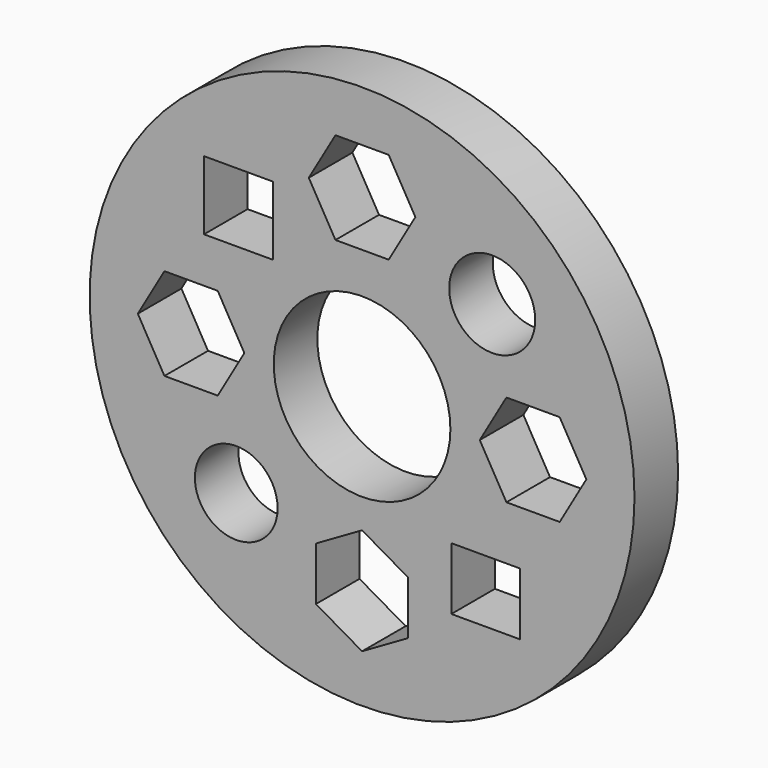
from build123d import *

# Parameters (mm, degrees)
F0_R     = 37.5
F0_R_2   = 12.1579998943
F1_DEPTH = 3.75
F2_W     = 9.4736851752
F2_H     = 9.4736842439
F2_W_2   = 9.4736861065
F2_H_2   = 8.5855266079
F2_R     = 5.6946860576
F2_R_2   = 5.9210527688
F3_DEPTH = 25


with BuildPart() as f1:
    # F0 (on Front) → F1 (new body, symmetric)
    with BuildSketch(Plane.XZ):
        Circle(F0_R)
        Polygon((6.35, -19.8700087307), (6.35, -27.2023571494), (0, -30.8685313587), (-6.35, -27.2023571494), (-6.35, -19.8700087307), (0, -16.2038345213), align=None, mode=Mode.SUBTRACT)
        Polygon((-19.8700087307, -6.35), (-27.2023571494, -6.35), (-30.8685313587, 0), (-27.2023571494, 6.35), (-19.8700087307, 6.35), (-16.2038345213, 0), align=None, mode=Mode.SUBTRACT)
        Circle(F0_R_2, mode=Mode.SUBTRACT)
        Polygon((30.8685313587, 0), (27.2023571494, -6.35), (19.8700087307, -6.35), (16.2038345213, 0), (19.8700087307, 6.35), (27.2023571494, 6.35), align=None, mode=Mode.SUBTRACT)
        Polygon((7.3323484187, 24.1282898933), (3.6661742094, 17.7782898933), (-3.6661742094, 17.7782898933), (-7.3323484187, 24.1282898933), (-3.6661742094, 30.4782898933), (3.6661742094, 30.4782898933), align=None, mode=Mode.SUBTRACT)
    extrude(amount=F1_DEPTH, both=True)

    # F2 (on Front) → F3 (cut, symmetric)
    with BuildSketch(Plane.XZ):
        with Locations((-17.0230269432, 17.3190799542)):
            Rectangle(F2_W, F2_H)
        with Locations((17.0230264775, -18.0592113174)):
            Rectangle(F2_W_2, F2_H_2)
        with Locations((-17.3190794885, -17.3190794885)):
            Circle(F2_R)
        with Locations((17.9111864418, 17.0230269432)):
            Circle(F2_R_2)
    extrude(amount=F3_DEPTH, both=True, mode=Mode.SUBTRACT)


solid = f1.part
